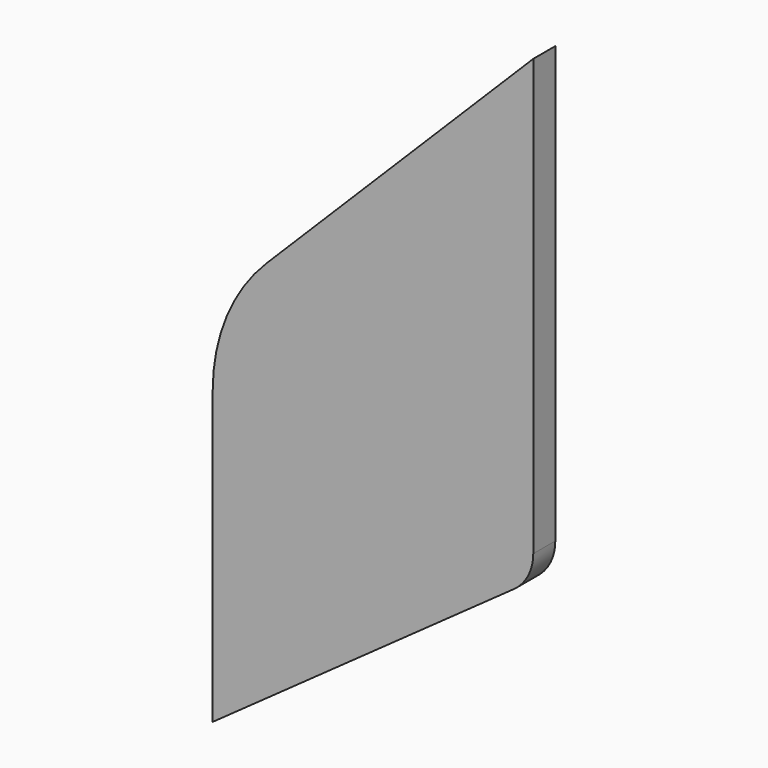
from build123d import *

# Parameters (mm, degrees)
PAD007_DEPTH            = 1.5
FILLET008_R             = 20
FILLET009_R             = 5
BODY008_PLACEMENT_ANGLE = 90


with BuildPart() as part:
    # Sketch012 → Pad007 (new body, symmetric)
    with BuildSketch(Plane.YZ):
        Polygon((27, -2.5), (61.9, -27.4), (61.9, 12.6), (27, 47.5), align=None)
    extrude(amount=PAD007_DEPTH, both=True)

    # Fillet008
    fillet008_edges = [part.edges().sort_by_distance(p)[0] for p in [
        (0, 61.9, 12.6),
    ]]
    fillet(fillet008_edges, radius=FILLET008_R)

    # Fillet009
    fillet009_edges = [part.edges().sort_by_distance(p)[0] for p in [
        (0, 27, -2.5),
    ]]
    fillet(fillet009_edges, radius=FILLET009_R)


with BuildPart() as part_1:
    # Body008 placement: moved
    add(part.part.rotate(Axis((0, 0, 0), (0, 0, 1)), BODY008_PLACEMENT_ANGLE))


solid = part_1.part
